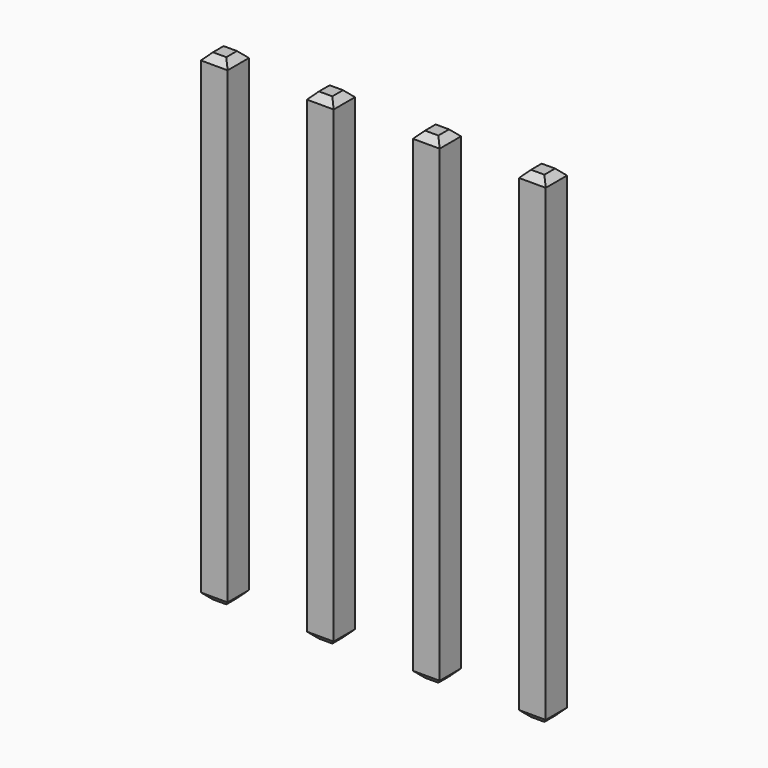
from build123d import *

# Parameters (mm, degrees)
SKETCH225_W       = 0.64
SKETCH225_H       = 11.54
PAD079_DEPTH      = 0.32
PAD079_DEPTH_BACK = 0.32
CHAMFER039_SIZE   = 0.16
ARRAY012_X_COUNT  = 4
ARRAY012_X_PITCH  = 2.54


with BuildPart() as part:
    # Sketch225 → Pad079 (new body, two sides)
    with BuildSketch(Plane.XZ) as pad079_sk:
        with Locations((0, 2.77)):
            Rectangle(SKETCH225_W, SKETCH225_H)
    extrude(amount=PAD079_DEPTH)
    extrude(pad079_sk.sketch, amount=-PAD079_DEPTH_BACK)

    # Chamfer039
    chamfer039_edges = [part.edges().sort_by_distance(p)[0] for p in [
        (0.32, 0, 8.54),
        (-0.32, 0, 8.54),
        (0, 0.32, 8.54),
        (0, -0.32, 8.54),
        (-0.32, 0, -3),
        (0.32, 0, -3),
        (0, 0.32, -3),
        (0, -0.32, -3),
    ]]
    chamfer(chamfer039_edges, length=CHAMFER039_SIZE)

    # Array012 X: part ×4


with BuildPart() as part_1:
    add(part.part)
    with Locations(*[(i * ARRAY012_X_PITCH, 0, 0) for i in range(1, ARRAY012_X_COUNT)]):
        add(part.part)


solid = part_1.part
